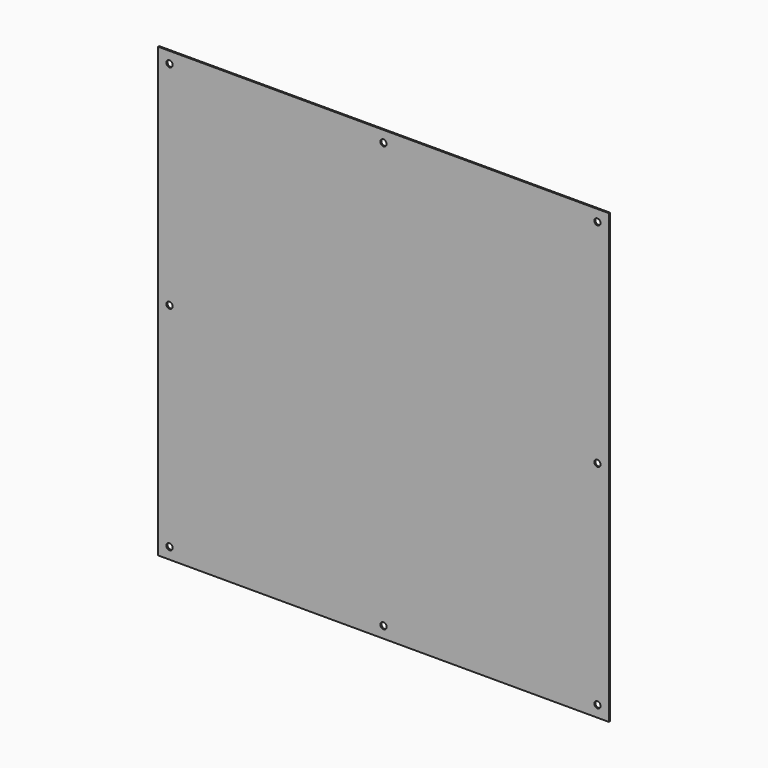
from build123d import *

# Parameters (mm, degrees)
F0_W     = 503.2
F0_H     = 500
F0_R     = 3.5
F1_DEPTH = 1.5


with BuildPart() as f1:
    # F0 (on Front) → F1 (new body)
    with BuildSketch(Plane.XZ):
        Rectangle(F0_W, F0_H)
        with Locations((-238.9, -237.3)):
            Circle(F0_R, mode=Mode.SUBTRACT)
        with Locations((0, -237.3)):
            Circle(F0_R, mode=Mode.SUBTRACT)
        with Locations((238.9, -237.3)):
            Circle(F0_R, mode=Mode.SUBTRACT)
        with Locations((-238.9, 0)):
            Circle(F0_R, mode=Mode.SUBTRACT)
        with Locations((-238.9, 237.3)):
            Circle(F0_R, mode=Mode.SUBTRACT)
        with Locations((0, 237.3)):
            Circle(F0_R, mode=Mode.SUBTRACT)
        with Locations((238.9, 0)):
            Circle(F0_R, mode=Mode.SUBTRACT)
        with Locations((238.9, 237.3)):
            Circle(F0_R, mode=Mode.SUBTRACT)
    extrude(amount=F1_DEPTH)


solid = f1.part
